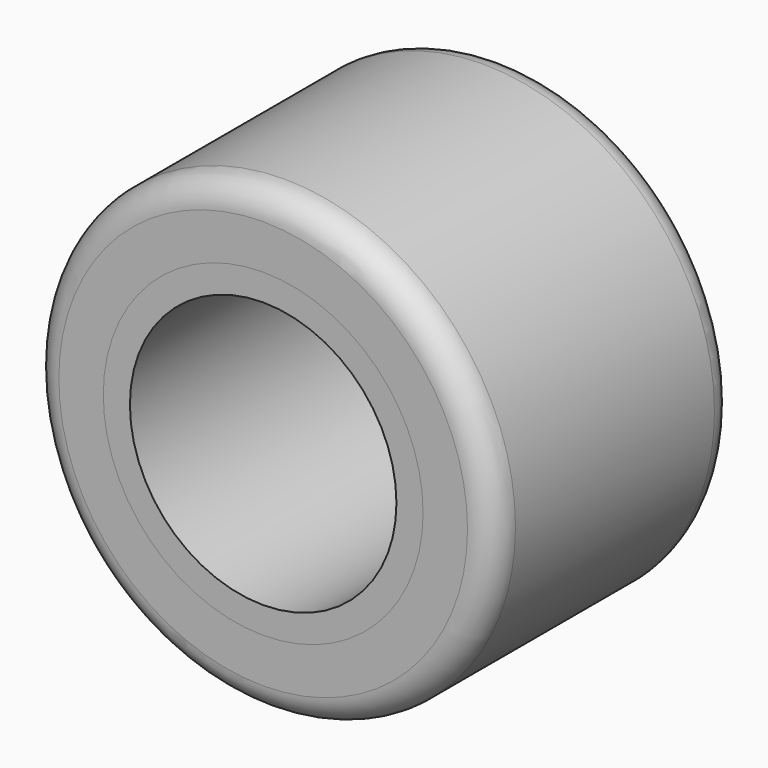
from build123d import *

# Parameters (mm, degrees)
F0_R     = 75
F0_R_2   = 15
F1_DEPTH = 20
F0_R_3   = 90
F2_DEPTH = 170
F3_R     = 130
F3_R_2   = 90
F4_DEPTH = 170
F5_R     = 15


with BuildPart() as f1:
    # F0 (on Front) → F1 (new body)
    with BuildSketch(Plane.XZ):
        Circle(F0_R)
        with BuildLine():
            ThreePointArc((43.398268, -41.431755), (20.521209, -56.381557), (-6.613183, -59.634435))
            ThreePointArc((-6.613183, -59.634435), (-10.309892, -57.302348), (-10.760548, -52.954798))
            Line((-10.760548, -52.954798), (-5.420589, -38.28338))
            ThreePointArc((-5.420589, -38.28338), (-3.552919, -35.872), (-0.63186, -34.994296))
            ThreePointArc((-0.63186, -34.994296), (11.970705, -32.889242), (22.977933, -26.401034))
            ThreePointArc((22.977933, -26.401034), (25.779771, -25.195774), (28.760495, -25.842484))
            Line((28.760495, -25.842484), (42.281746, -33.648982))
            ThreePointArc((42.281746, -33.648982), (44.731074, -37.269074), (43.398268, -41.431755))
        make_face(mode=Mode.SUBTRACT)
        with BuildLine():
            ThreePointArc((-57.580086, -16.868125), (-59.088465, 10.418891), (-48.338344, 35.544402))
            ThreePointArc((-48.338344, 35.544402), (-44.470343, 37.579802), (-40.479926, 35.796307))
            Line((-40.479926, 35.796307), (-30.444086, 23.836058))
            ThreePointArc((-30.444086, 23.836058), (-29.289604, 21.012918), (-29.990019, 18.044355))
            ThreePointArc((-29.990019, 18.044355), (-34.468271, 6.077686), (-34.352933, -6.698956))
            ThreePointArc((-34.352933, -6.698956), (-34.710065, -9.728049), (-36.760495, -11.986077))
            Line((-36.760495, -11.986077), (-50.281746, -19.792575))
            ThreePointArc((-50.281746, -19.792575), (-54.641502, -20.103709), (-57.580086, -16.868125))
        make_face(mode=Mode.SUBTRACT)
        Circle(F0_R_2, mode=Mode.SUBTRACT)
        with BuildLine():
            Line((8, 37.828561), (8, 53.441557))
            ThreePointArc((8, 53.441557), (9.910428, 57.372784), (14.181818, 58.29988))
            ThreePointArc((14.181818, 58.29988), (38.567257, 45.962667), (54.951527, 24.090032))
            ThreePointArc((54.951527, 24.090032), (54.780235, 19.722546), (51.240474, 17.158491))
            Line((51.240474, 17.158491), (35.864674, 14.447323))
            ThreePointArc((35.864674, 14.447323), (32.842522, 14.859082), (30.621879, 16.949941))
            ThreePointArc((30.621879, 16.949941), (22.497566, 26.811556), (11.375, 33.099991))
            ThreePointArc((11.375, 33.099991), (8.930295, 34.923823), (8, 37.828561))
        make_face(mode=Mode.SUBTRACT)
    extrude(amount=F1_DEPTH)

    # F0 (on Front) → F2 (join)
    with BuildSketch(Plane.XZ):
        Circle(F0_R_3)
        Circle(F0_R, mode=Mode.SUBTRACT)
    extrude(amount=F2_DEPTH)


with BuildPart() as f4:
    # F3 (on face) → F4 (new body)
    with BuildSketch(Plane(origin=(0, 0, 0), x_dir=(-1, 0, 0), z_dir=(0, 1, 0))):
        Circle(F3_R)
        Circle(F3_R_2, mode=Mode.SUBTRACT)
    extrude(amount=-F4_DEPTH)

    # F5
    f5_edges = [f4.edges().sort_by_distance(p)[0] for p in [
        (130, -170, 0),
        (130, 0, 0),
    ]]
    fillet(f5_edges, radius=F5_R)


solid = Compound([f1.part, f4.part])
